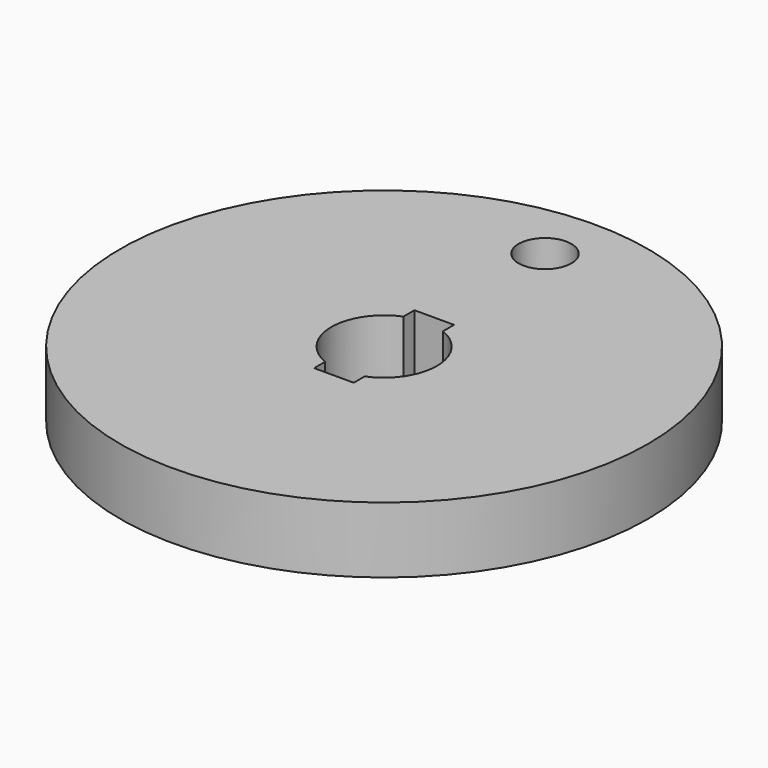
from build123d import *

# Parameters (mm, degrees)
F0_R     = 20
F0_R_2   = 2
F1_DEPTH = 2.5


with BuildPart() as f1:
    # F0 (on Top) → F1 (new body, symmetric)
    with BuildSketch(Plane.XY):
        Circle(F0_R)
        with BuildLine():
            ThreePointArc((1.5, 3.708099), (3.316625, 2.236068), (4, 0))
            ThreePointArc((4, 0), (3.316625, -2.236068), (1.5, -3.708099))
            Line((1.5, -3.708099), (1.5, -4.75))
            Line((1.5, -4.75), (-1.5, -4.75))
            Line((-1.5, -4.75), (-1.5, -3.708099))
            ThreePointArc((-1.5, -3.708099), (-4, 0), (-1.5, 3.708099))
            Line((-1.5, 3.708099), (-1.5, 4.75))
            Line((-1.5, 4.75), (1.5, 4.75))
            Line((1.5, 4.75), (1.5, 3.708099))
        make_face(mode=Mode.SUBTRACT)
        with Locations((0, 15.241314)):
            Circle(F0_R_2, mode=Mode.SUBTRACT)
    extrude(amount=F1_DEPTH, both=True)


solid = f1.part
